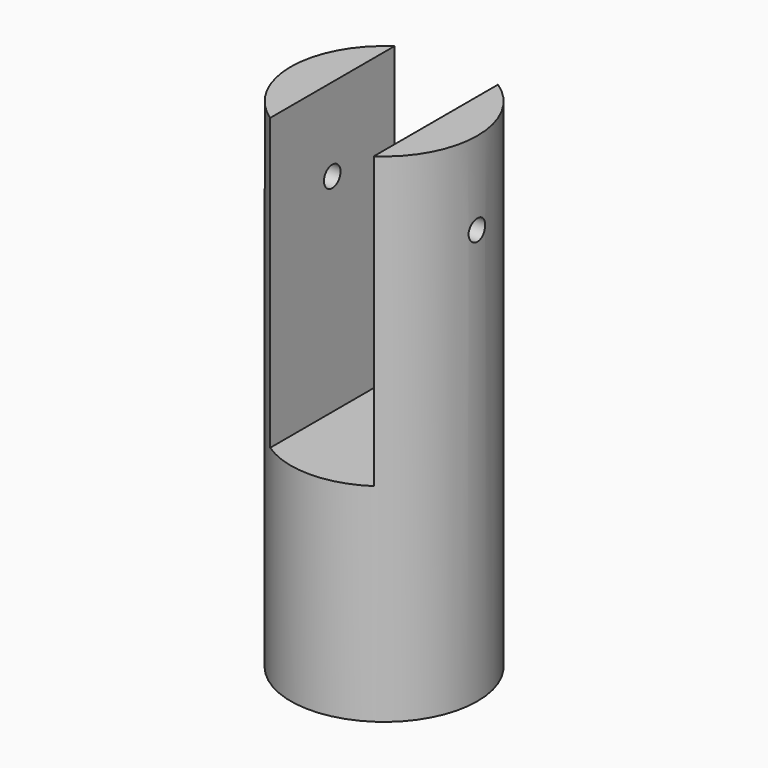
from build123d import *

# Parameters (mm, degrees)
F0_R     = 22.5
F1_DEPTH = 120
F4_DEPTH = 70
F5_R     = 20
F6_DEPTH = 35
F9_D     = 5


with BuildPart() as f1:
    # F0 (on Top) → F1 (new body)
    with BuildSketch(Plane.XY):
        Circle(F0_R)
    extrude(amount=F1_DEPTH)

    # F2 (on face) → F4 (cut)
    with BuildSketch(Plane.XY.offset(120)):
        with BuildLine():
            ThreePointArc((12.5, 18.708287), (0, 22.5), (-12.5, 18.708287))
            Line((-12.5, 18.708287), (-12.5, -18.708287))
            ThreePointArc((-12.5, -18.708287), (0, -22.5), (12.5, -18.708287))
            Line((12.5, -18.708287), (12.5, 18.708287))
        make_face()
    extrude(amount=-F4_DEPTH, mode=Mode.SUBTRACT)

    # F5 (on face) → F6 (cut)
    with BuildSketch(Plane(origin=(0, 0, 0), x_dir=(1, 0, 0), z_dir=(0, 0, -1))):
        Circle(F5_R)
    extrude(amount=-F6_DEPTH, mode=Mode.SUBTRACT)

    # F9 (through all)
    with Locations(Plane.YZ.offset(22.5)):
        with Locations((0, 100)):
            Hole(F9_D / 2)


solid = f1.part
